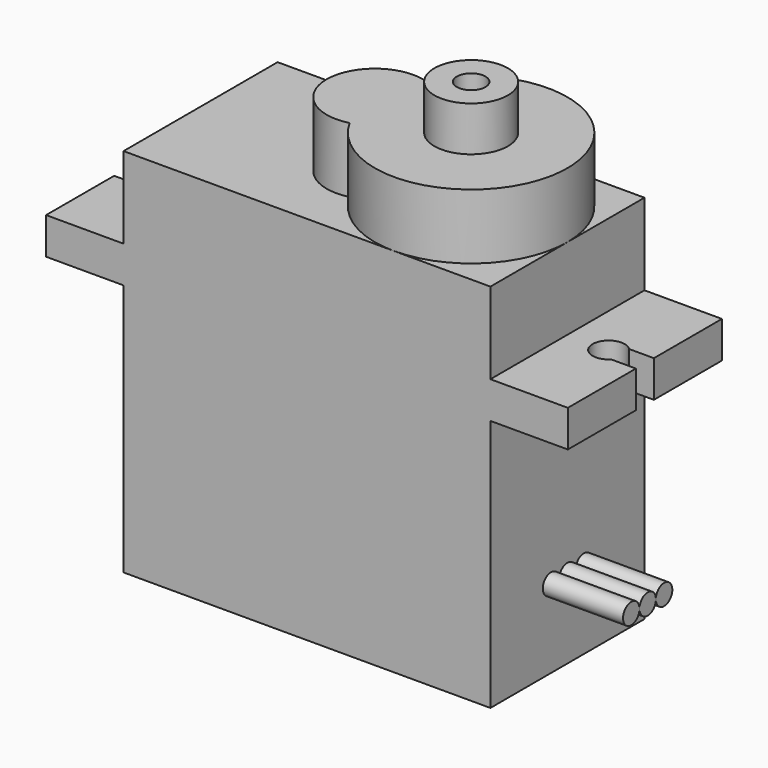
from build123d import *

# Parameters (mm, degrees)
CYLINDER001_R           = 3
CYLINDER001_DEPTH       = 4.06
CYLINDER003_R           = 0.89
CYLINDER003_DEPTH       = 2.79
CYLINDER002_R           = 2.29
CYLINDER002_DEPTH       = 2.79
BOX_W                   = 10
BOX_H                   = 1.4
BOX_DEPTH               = 10
CYLINDER004_R           = 1
CYLINDER004_DEPTH       = 10
PAD_DEPTH               = 6
CYLINDER005_R           = 0.64
CYLINDER005_DEPTH       = 5
CYLINDER005_PITCH_ANGLE = 90
CYLINDER006_R           = 0.64
CYLINDER006_DEPTH       = 5
CYLINDER006_PITCH_ANGLE = 90
CYLINDER007_R           = 0.64
CYLINDER007_DEPTH       = 5
CYLINDER007_PITCH_ANGLE = 90
CYLINDER_R              = 6
CYLINDER_DEPTH          = 4.06


with BuildPart() as cylinder001:
    # Cylinder001 → Cylinder001 (new body)
    with BuildSketch(Plane(origin=(-0.57, 0, 6.22), x_dir=(1, 0, 0), z_dir=(0, 0, 1))):
        Circle(CYLINDER001_R)
    extrude(amount=CYLINDER001_DEPTH)


with BuildPart() as cylinder003:
    # Cylinder003 → Cylinder003 (new body)
    with BuildSketch(Plane(origin=(5.43, 0, 10.28), x_dir=(1, 0, 0), z_dir=(0, 0, 1))):
        Circle(CYLINDER003_R)
    extrude(amount=CYLINDER003_DEPTH)


with BuildPart() as cut:
    # Cylinder002 → Cylinder002 (new body)
    with BuildSketch(Plane(origin=(5.43, 0, 10.28), x_dir=(1, 0, 0), z_dir=(0, 0, 1))):
        Circle(CYLINDER002_R)
    extrude(amount=CYLINDER002_DEPTH)

    # Cut: cut Cylinder003
    add(cylinder003.part, mode=Mode.SUBTRACT)


with BuildPart() as box:
    # Box → Box (new body)
    with BuildSketch(Plane(origin=(14, -0.7, -3), x_dir=(1, 0, 0), z_dir=(0, 0, 1))):
        with Locations((5, 0.7)):
            Rectangle(BOX_W, BOX_H)
    extrude(amount=BOX_DEPTH)


with BuildPart() as part_mirroring001:
    # Part__Mirroring001: instance of Box
    add(box.part.mirror(Plane(origin=(0, 0, 0), x_dir=(0, -1, 0), z_dir=(1, 0, 0))))


with BuildPart() as cylinder004:
    # Cylinder004 → Cylinder004 (new body)
    with BuildSketch(Plane(origin=(14, 0, -3), x_dir=(1, 0, 0), z_dir=(0, 0, 1))):
        Circle(CYLINDER004_R)
    extrude(amount=CYLINDER004_DEPTH)


with BuildPart() as fusion:
    # Part__Mirroring: instance of Cylinder004
    add(cylinder004.part.mirror(Plane(origin=(0, 0, 0), x_dir=(0, -1, 0), z_dir=(1, 0, 0))))

    # Fusion: union Part__Mirroring001, Cylinder004, Box
    add(part_mirroring001.part)
    add(cylinder004.part)
    add(box.part)


with BuildPart() as cut001:
    # Sketch → Pad (new body, symmetric)
    with BuildSketch(Plane.XZ):
        Polygon((16.256, 1.143), (16.256, -1.143), (11.43, -1.143), (11.43, -16.891), (-11.43, -16.891), (-11.43, -1.143), (-16.256, -1.143), (-16.256, 1.143), (-11.43, 1.143), (-11.43, 6.223), (11.43, 6.223), (11.43, 1.143), align=None)
    extrude(amount=PAD_DEPTH, both=True)

    # Cut001: cut Fusion
    add(fusion.part, mode=Mode.SUBTRACT)


with BuildPart() as cylinder005:
    # Cylinder005 → Cylinder005 (new body)
    with BuildSketch(Plane.XY):
        Circle(CYLINDER005_R)
    extrude(amount=CYLINDER005_DEPTH)


with BuildPart() as cylinder005_1:
    # Cylinder005 pitch: moved
    add(cylinder005.part.rotate(Axis((0, 0, 0), (0, 1, 0)), CYLINDER005_PITCH_ANGLE))


with BuildPart() as cylinder005_2:
    # Cylinder005 placement: moved
    add(cylinder005_1.part.moved(Location((11.43, 0, -12))))


with BuildPart() as cylinder006:
    # Cylinder006 → Cylinder006 (new body)
    with BuildSketch(Plane.XY):
        Circle(CYLINDER006_R)
    extrude(amount=CYLINDER006_DEPTH)


with BuildPart() as cylinder006_1:
    # Cylinder006 pitch: moved
    add(cylinder006.part.rotate(Axis((0, 0, 0), (0, 1, 0)), CYLINDER006_PITCH_ANGLE))


with BuildPart() as cylinder006_2:
    # Cylinder006 placement: moved
    add(cylinder006_1.part.moved(Location((11.43, -1.28, -12))))


with BuildPart() as cylinder007:
    # Cylinder007 → Cylinder007 (new body)
    with BuildSketch(Plane.XY):
        Circle(CYLINDER007_R)
    extrude(amount=CYLINDER007_DEPTH)


with BuildPart() as cylinder007_1:
    # Cylinder007 pitch: moved
    add(cylinder007.part.rotate(Axis((0, 0, 0), (0, 1, 0)), CYLINDER007_PITCH_ANGLE))


with BuildPart() as cylinder007_2:
    # Cylinder007 placement: moved
    add(cylinder007_1.part.moved(Location((11.43, 1.28, -12))))


with BuildPart() as obj1:
    # Cylinder → Cylinder (new body)
    with BuildSketch(Plane(origin=(5.43, 0, 6.22), x_dir=(1, 0, 0), z_dir=(0, 0, 1))):
        Circle(CYLINDER_R)
    extrude(amount=CYLINDER_DEPTH)

    # Fusion001: union Cylinder001, Cut, Cut001, Cylinder005, Cylinder006, Cylinder007
    add(cylinder001.part)
    add(cut.part)
    add(cut001.part)
    add(cylinder005_2.part)
    add(cylinder006_2.part)
    add(cylinder007_2.part)


solid = obj1.part
